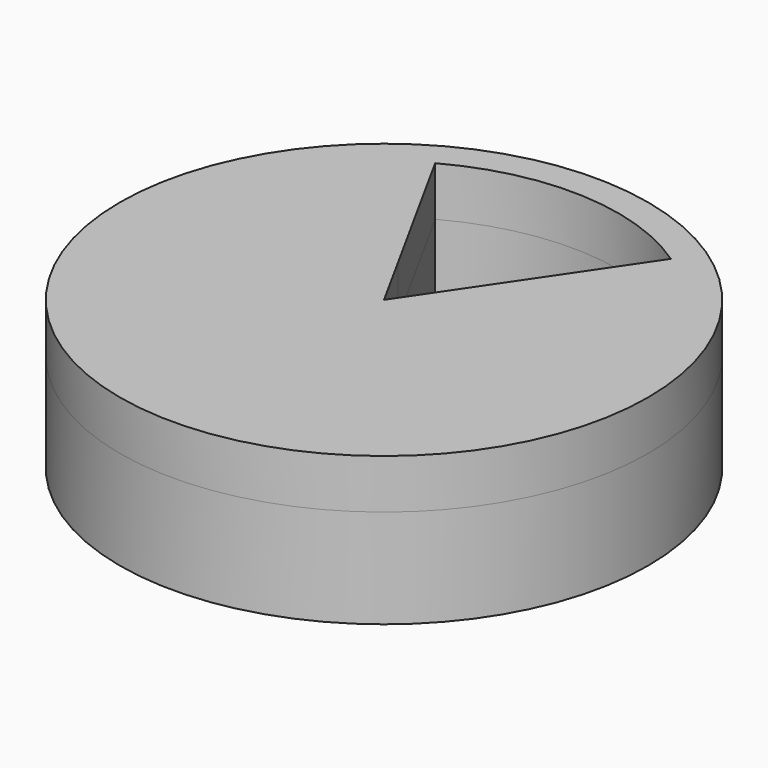
from build123d import *

# Parameters (mm, degrees)
F0_R     = 66.8540784476
F1_DEPTH = 12.5
F2_START = 12.5
F2_DEPTH = 12.5


with BuildPart() as f1:
    # F0 (on Top) → F1 (new body, symmetric)
    with BuildSketch(Plane.XY):
        Circle(F0_R)
        with BuildLine():
            ThreePointArc((33.2986488476, 49.1375390285), (52.4395751536, 27.8098672158), (59.3573732307, 0))
            ThreePointArc((59.3573732307, 0), (-30.1930998763, -51.1045445799), (-28.6409438971, 51.9903268843))
            ThreePointArc((-28.6409438971, 51.9903268843), (2.730962008, 59.294515795), (33.2986488476, 49.1375390285))
        make_face(mode=Mode.SUBTRACT)
        with BuildLine():
            ThreePointArc((-28.6409438971, 51.9903268843), (-30.1930998763, -51.1045445799), (59.3573732307, 0))
            ThreePointArc((59.3573732307, 0), (52.4395751536, 27.8098672158), (33.2986488476, 49.1375390285))
            Line((33.2986488476, 49.1375390285), (9.1494524974, 13.5014961489))
            ThreePointArc((9.1494524974, 13.5014961489), (14.4087949047, 7.6413028112), (16.3095946994, 0))
            ThreePointArc((16.3095946994, 0), (-8.296142415, -14.0419692454), (-7.8696573205, 14.2853551905))
            Line((-7.8696573205, 14.2853551905), (-28.6409438971, 51.9903268843))
        make_face()
        with BuildLine():
            ThreePointArc((16.3095946994, 0), (14.4087949047, 7.6413028112), (9.1494524974, 13.5014961489))
            Line((9.1494524974, 13.5014961489), (0, 0))
            Line((0, 0), (-7.8696573205, 14.2853551905))
            ThreePointArc((-7.8696573205, 14.2853551905), (-8.296142415, -14.0419692454), (16.3095946994, 0))
        make_face()
        with BuildLine():
            Line((0, 0), (9.1494524974, 13.5014961489))
            ThreePointArc((9.1494524974, 13.5014961489), (0.7503850165, 16.2923233944), (-7.8696573205, 14.2853551905))
            Line((-7.8696573205, 14.2853551905), (0, 0))
        make_face()
    extrude(amount=F1_DEPTH, both=True)


with BuildPart() as f2:
    # F0 (on Top) → F2 (new body)
    with BuildSketch(Plane.XY.offset(F2_START)):
        Circle(F0_R)
        with BuildLine():
            ThreePointArc((33.2986488476, 49.1375390285), (52.4395751536, 27.8098672158), (59.3573732307, 0))
            ThreePointArc((59.3573732307, 0), (-30.1930998763, -51.1045445799), (-28.6409438971, 51.9903268843))
            ThreePointArc((-28.6409438971, 51.9903268843), (2.730962008, 59.294515795), (33.2986488476, 49.1375390285))
        make_face(mode=Mode.SUBTRACT)
        with BuildLine():
            ThreePointArc((-28.6409438971, 51.9903268843), (-30.1930998763, -51.1045445799), (59.3573732307, 0))
            ThreePointArc((59.3573732307, 0), (52.4395751536, 27.8098672158), (33.2986488476, 49.1375390285))
            Line((33.2986488476, 49.1375390285), (9.1494524974, 13.5014961489))
            ThreePointArc((9.1494524974, 13.5014961489), (14.4087949047, 7.6413028112), (16.3095946994, 0))
            ThreePointArc((16.3095946994, 0), (-8.296142415, -14.0419692454), (-7.8696573205, 14.2853551905))
            Line((-7.8696573205, 14.2853551905), (-28.6409438971, 51.9903268843))
        make_face()
        with BuildLine():
            ThreePointArc((16.3095946994, 0), (14.4087949047, 7.6413028112), (9.1494524974, 13.5014961489))
            Line((9.1494524974, 13.5014961489), (0, 0))
            Line((0, 0), (-7.8696573205, 14.2853551905))
            ThreePointArc((-7.8696573205, 14.2853551905), (-8.296142415, -14.0419692454), (16.3095946994, 0))
        make_face()
    extrude(amount=F2_DEPTH)


solid = Compound([f1.part, f2.part])
